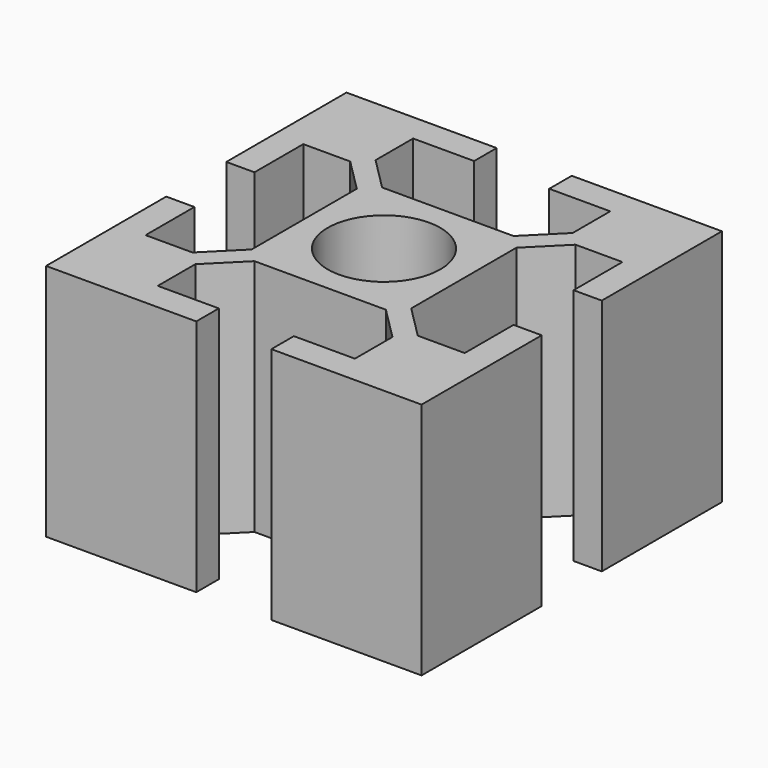
from build123d import *

# Parameters (mm, degrees)
F0_R     = 5.999988
F1_DEPTH = 25.4


with BuildPart() as f1:
    # F0 (on Top) → F1 (new body)
    with BuildSketch(Plane.XY):
        Polygon((3.999967, 19.99996), (3.999967, 16.999966), (10.500004, 16.999966), (10.500004, 11.999976), (7.000011, 8.500008), (-7.000037, 8.500008), (-10.500004, 11.999976), (-10.500004, 16.999966), (-3.999967, 16.999966), (-3.999967, 19.99996), (-19.99996, 19.99996), (-19.99996, 3.999967), (-16.999966, 3.999967), (-16.999966, 10.500004), (-11.999976, 10.500004), (-8.499983, 7.000011), (-8.499983, -7.000037), (-11.999976, -10.500004), (-16.999966, -10.500004), (-16.999966, -3.999967), (-19.99996, -3.999967), (-19.99996, -19.99996), (-3.999967, -19.99996), (-3.999967, -16.999966), (-10.500004, -16.999966), (-10.500004, -11.999976), (-7.000011, -8.499983), (7.000011, -8.499983), (10.500004, -11.999976), (10.500004, -16.999966), (3.999967, -16.999966), (3.999967, -19.99996), (19.99996, -19.99996), (19.99996, -3.999967), (16.999966, -3.999967), (16.999966, -10.500004), (11.999976, -10.500004), (8.500008, -7.000011), (8.500008, 7.000011), (11.999976, 10.500004), (16.999966, 10.500004), (16.999966, 3.999967), (19.99996, 3.999967), (19.99996, 19.99996), align=None)
        Circle(F0_R, mode=Mode.SUBTRACT)
    extrude(amount=F1_DEPTH)


solid = f1.part
